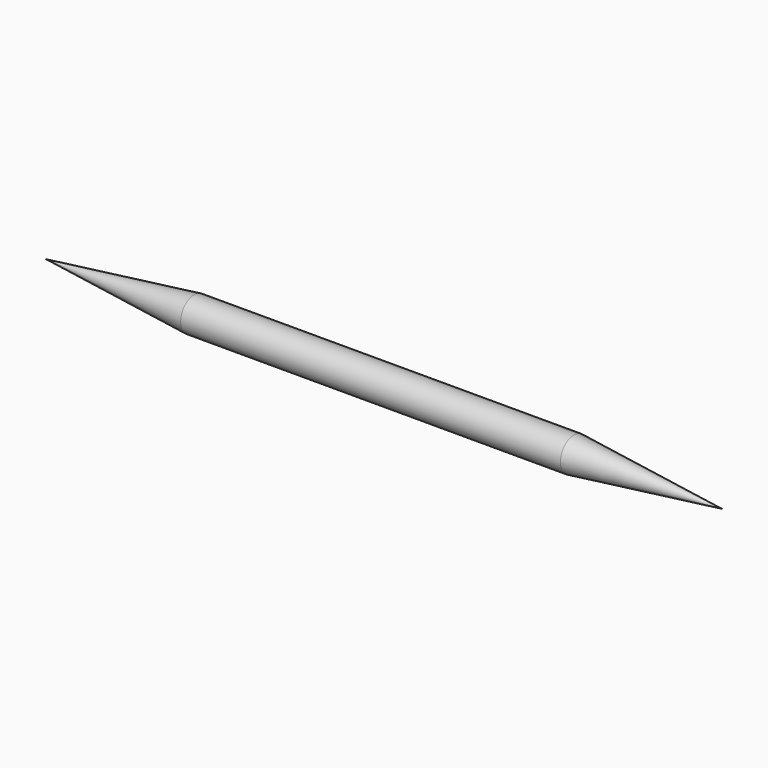
from build123d import *


with BuildPart() as f1:
    # F0 (on Top) → F1 (revolve)
    with BuildSketch(Plane.XY):
        Polygon((13.9165194705, 1.5875), (0, 0), (31.75, 0), (31.75, 1.5875), align=None)
        Polygon((31.75, 1.5875), (31.75, 0), (63.5, 0), (49.5949266485, 1.5875), align=None)
    revolve(axis=Axis((31.75, 0, 0), (1, 0, 0)))


solid = f1.part
